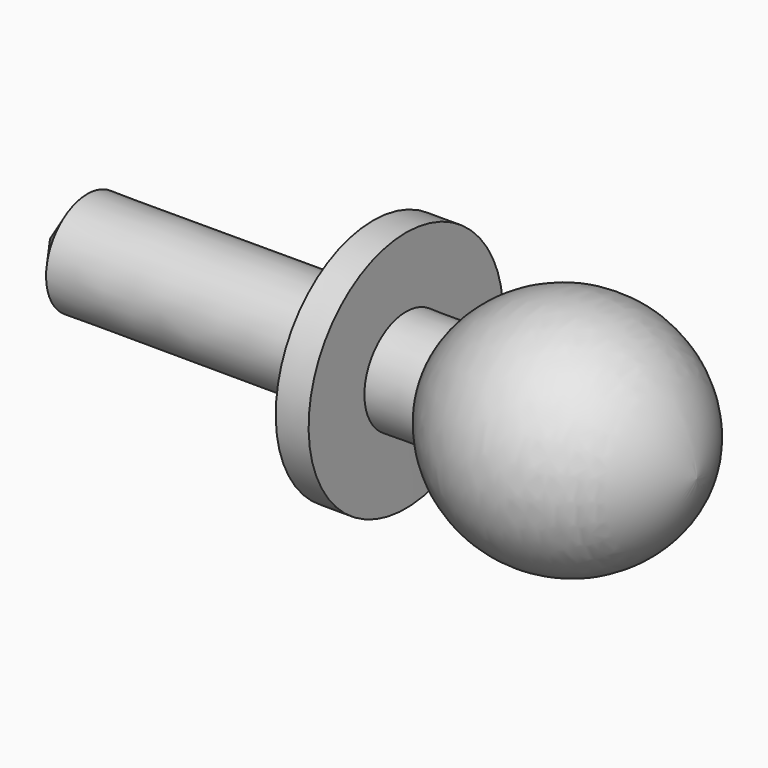
from build123d import *


with BuildPart() as f1:
    # F0 (on Front) → F1 (revolve)
    with BuildSketch(Plane.XZ):
        with BuildLine():
            Line((-62.461329118, 4.5), (-65.7222004289, 0))
            Line((-65.7222004289, 0), (-9.1506193077, -0.0823352341))
            ThreePointArc((-9.1506193077, -0.0823352341), (-18.0490896336, 9.7478926094), (-30.225943774, 4.5))
            Line((-30.225943774, 4.5), (-34.5826148987, 4.5))
            Line((-34.5826148987, 4.5), (-34.5826148987, 10.5909723788))
            Line((-34.5826148987, 10.5909723788), (-37.461329118, 10.5909723788))
            Line((-37.461329118, 10.5909723788), (-37.461329118, 4.5))
            Line((-37.461329118, 4.5), (-62.461329118, 4.5))
        make_face()
    revolve(axis=Axis((-37.4364098683, 0, -0.0411676171), (0.9999989409, 0, -0.0014554153)))


solid = f1.part
